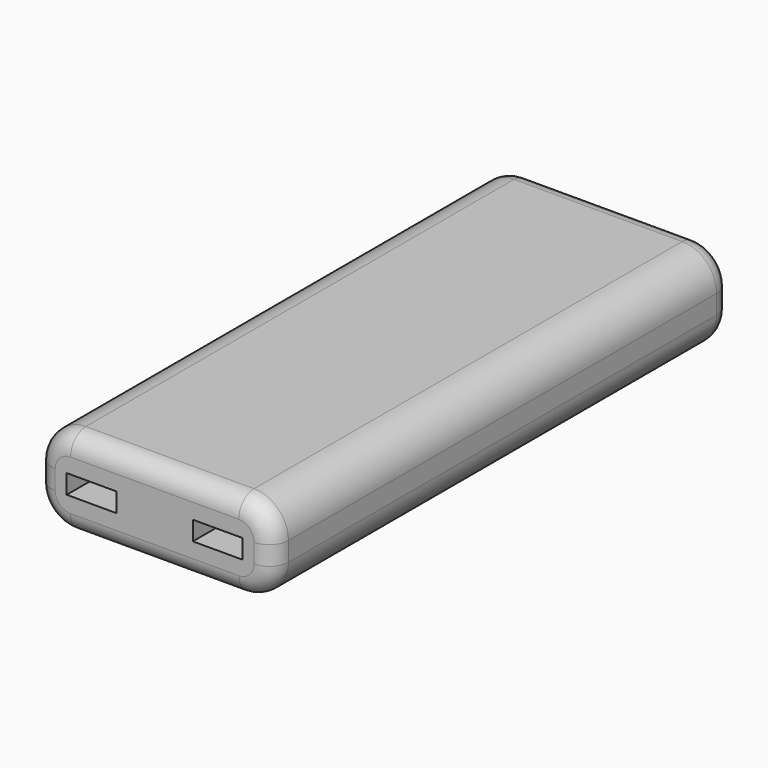
from build123d import *

# Parameters (mm, degrees)
F0_W          = 62
F0_H          = 23
F1_DEPTH      = 75
F1_DEPTH_BACK = 75
F2_R          = 9
F3_R          = 5
F4_W          = 13
F4_H          = 5
F5_DEPTH      = 10


with BuildPart() as f1:
    # F0 (on Front) → F1 (new body, two sides)
    with BuildSketch(Plane.XZ) as f1_sk:
        Rectangle(F0_W, F0_H)
    extrude(amount=F1_DEPTH)
    extrude(f1_sk.sketch, amount=-F1_DEPTH_BACK)

    # F2
    f2_edges = [f1.edges().sort_by_distance(p)[0] for p in [
        (31, 0, 11.5),
        (31, 0, -11.5),
        (-31, 0, 11.5),
        (-31, 0, -11.5),
    ]]
    fillet(f2_edges, radius=F2_R)

    # F3
    f3_edges = [f1.edges().sort_by_distance(p)[0] for p in [
        (0, -75, -11.5),
        (-28.363961, -75, -8.863961),
        (28.363961, -75, -8.863961),
        (-31, -75, 0),
        (31, -75, 0),
        (-28.363961, -75, 8.863961),
        (28.363961, -75, 8.863961),
        (0, -75, 11.5),
        (0, 75, -11.5),
        (-28.363961, 75, -8.863961),
        (28.363961, 75, -8.863961),
        (-31, 75, 0),
        (31, 75, 0),
        (-28.363961, 75, 8.863961),
        (28.363961, 75, 8.863961),
        (0, 75, 11.5),
    ]]
    fillet(f3_edges, radius=F3_R)

    # F4 (on face) → F5 (cut)
    with BuildSketch(Plane.XZ.offset(75)):
        with Locations((-16.5, 0)):
            Rectangle(F4_W, F4_H)
        with Locations((16.5, 0)):
            Rectangle(F4_W, F4_H)
    extrude(amount=-F5_DEPTH, mode=Mode.SUBTRACT)


solid = f1.part
